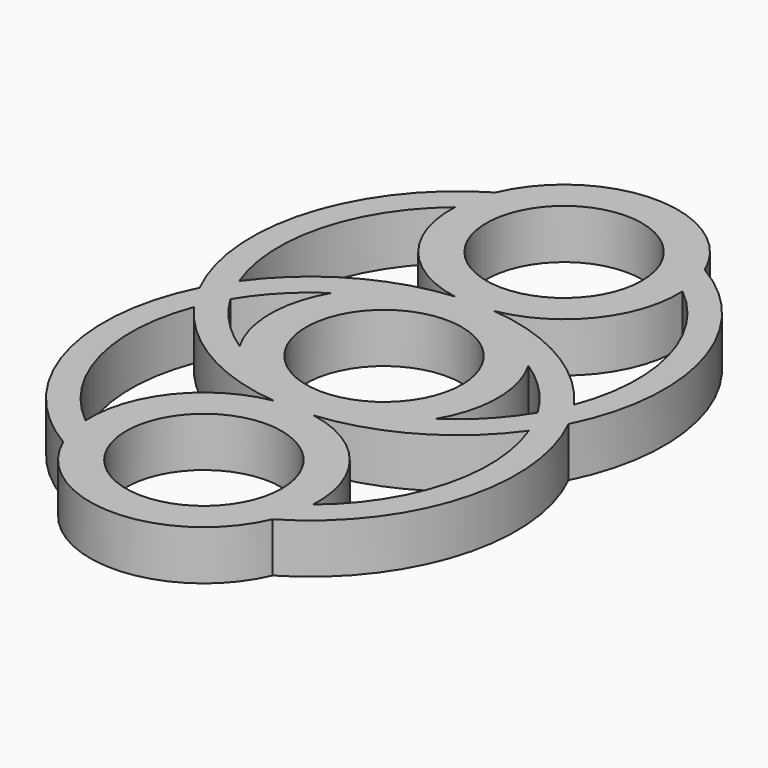
from build123d import *

# Parameters (mm, degrees)
F0_R     = 10.9855
F1_DEPTH = 6.985


with BuildPart() as f1:
    # F0 (on Top) → F1 (new body)
    with BuildSketch(Plane.XY):
        with BuildLine():
            ThreePointArc((-21.668307594, 0), (-18.2243869403, 4.4968425779), (-13.8658100212, 8.1141606286))
            ThreePointArc((-13.8658100212, 8.1141606286), (-16.0655, 0), (-13.8658100212, -8.1141606286))
            ThreePointArc((-13.8658100212, -8.1141606286), (-9.0413202093, -13.2798651771), (-2.4667114241, -15.875))
            ThreePointArc((-2.4667114241, -15.875), (-2.6336178966, -15.9018345849), (-2.8002327647, -15.9304239401))
            ThreePointArc((-2.8002327647, -15.9304239401), (-12.5689671865, -21.743934134), (-16.044699379, -32.5672588867))
            ThreePointArc((-16.044699379, -32.5672588867), (-15.6474770652, -35.3909822497), (-14.75729617, -38.1))
            ThreePointArc((-14.75729617, -38.1), (0, -47.8155), (14.75729617, -38.1))
            ThreePointArc((14.75729617, -38.1), (15.6474770652, -35.3909822497), (16.044699379, -32.5672588867))
            ThreePointArc((16.044699379, -32.5672588867), (12.5689671865, -21.743934134), (2.8002327647, -15.9304239401))
            ThreePointArc((2.8002327647, -15.9304239401), (2.6336178966, -15.9018345849), (2.4667114241, -15.875))
            ThreePointArc((2.4667114241, -15.875), (9.0413202093, -13.2798651771), (13.8658100212, -8.1141606286))
            ThreePointArc((13.8658100212, -8.1141606286), (16.0655, 0), (13.8658100212, 8.1141606286))
            ThreePointArc((13.8658100212, 8.1141606286), (18.2243869403, 4.4968425779), (21.668307594, 0))
            ThreePointArc((21.668307594, 0), (22.7248224192, 1.9453544448), (23.6071191459, 3.9756696857))
            ThreePointArc((23.6071191459, 3.9756696857), (14.4936570973, 12.1982197779), (2.8002327647, 15.9304239401))
            ThreePointArc((2.8002327647, 15.9304239401), (12.5689671865, 21.743934134), (16.044699379, 32.5672588867))
            ThreePointArc((16.044699379, 32.5672588867), (15.6474770652, 35.3909822497), (14.75729617, 38.1))
            ThreePointArc((14.75729617, 38.1), (0, 47.8155), (-14.75729617, 38.1))
            ThreePointArc((-14.75729617, 38.1), (-15.6474770652, 35.3909822497), (-16.044699379, 32.5672588867))
            ThreePointArc((-16.044699379, 32.5672588867), (-12.5689671865, 21.743934134), (-2.8002327647, 15.9304239401))
            ThreePointArc((-2.8002327647, 15.9304239401), (-14.4936570973, 12.1982197779), (-23.6071191459, 3.9756696857))
            ThreePointArc((-23.6071191459, 3.9756696857), (-22.7248224192, 1.9453544448), (-21.668307594, 0))
        make_face()
        with Locations((0, -31.75)):
            Circle(F0_R, mode=Mode.SUBTRACT)
        Circle(F0_R, mode=Mode.SUBTRACT)
        with Locations((0, 31.75)):
            Circle(F0_R, mode=Mode.SUBTRACT)
        with BuildLine():
            ThreePointArc((-23.6071191459, -3.9756696857), (-22.7248224192, -1.9453544448), (-21.668307594, 0))
            ThreePointArc((-21.668307594, 0), (-22.7248224192, 1.9453544448), (-23.6071191459, 3.9756696857))
            ThreePointArc((-23.6071191459, 3.9756696857), (-24.8896850265, 2.0359533325), (-26.013236893, 0))
            ThreePointArc((-26.013236893, 0), (-24.8896850265, -2.0359533325), (-23.6071191459, -3.9756696857))
        make_face()
        with BuildLine():
            ThreePointArc((-26.013236893, 0), (-24.8896850265, 2.0359533325), (-23.6071191459, 3.9756696857))
            ThreePointArc((-23.6071191459, 3.9756696857), (-24.4425125824, 19.4925468905), (-16.044699379, 32.5672588867))
            ThreePointArc((-16.044699379, 32.5672588867), (-15.6474770652, 35.3909822497), (-14.75729617, 38.1))
            ThreePointArc((-14.75729617, 38.1), (-27.9009245646, 21.2703622392), (-26.013236893, 0))
        make_face()
        with BuildLine():
            ThreePointArc((-16.044699379, -32.5672588867), (-24.4425125824, -19.4925468905), (-23.6071191459, -3.9756696857))
            ThreePointArc((-23.6071191459, -3.9756696857), (-24.8896850265, -2.0359533325), (-26.013236893, 0))
            ThreePointArc((-26.013236893, 0), (-27.9009245646, -21.2703622392), (-14.75729617, -38.1))
            ThreePointArc((-14.75729617, -38.1), (-15.6474770652, -35.3909822497), (-16.044699379, -32.5672588867))
        make_face()
        with BuildLine():
            ThreePointArc((26.013236893, 0), (27.9009245646, 21.2703622392), (14.75729617, 38.1))
            ThreePointArc((14.75729617, 38.1), (15.6474770652, 35.3909822497), (16.044699379, 32.5672588867))
            ThreePointArc((16.044699379, 32.5672588867), (24.4425125824, 19.4925468905), (23.6071191459, 3.9756696857))
            ThreePointArc((23.6071191459, 3.9756696857), (24.8896850265, 2.0359533325), (26.013236893, 0))
        make_face()
        with BuildLine():
            ThreePointArc((16.044699379, -32.5672588867), (15.6474770652, -35.3909822497), (14.75729617, -38.1))
            ThreePointArc((14.75729617, -38.1), (27.9009245646, -21.2703622392), (26.013236893, 0))
            ThreePointArc((26.013236893, 0), (24.8896850265, -2.0359533325), (23.6071191459, -3.9756696857))
            ThreePointArc((23.6071191459, -3.9756696857), (24.4425125824, -19.4925468905), (16.044699379, -32.5672588867))
        make_face()
        with BuildLine():
            ThreePointArc((23.6071191459, -3.9756696857), (24.8896850265, -2.0359533325), (26.013236893, 0))
            ThreePointArc((26.013236893, 0), (24.8896850265, 2.0359533325), (23.6071191459, 3.9756696857))
            ThreePointArc((23.6071191459, 3.9756696857), (22.7248224192, 1.9453544448), (21.668307594, 0))
            ThreePointArc((21.668307594, 0), (22.7248224192, -1.9453544448), (23.6071191459, -3.9756696857))
        make_face()
        with BuildLine():
            ThreePointArc((-2.4667114241, -15.875), (-9.0413202093, -13.2798651771), (-13.8658100212, -8.1141606286))
            ThreePointArc((-13.8658100212, -8.1141606286), (-18.2243869403, -4.4968425779), (-21.668307594, 0))
            ThreePointArc((-21.668307594, 0), (-22.7248224192, -1.9453544448), (-23.6071191459, -3.9756696857))
            ThreePointArc((-23.6071191459, -3.9756696857), (-14.4936570973, -12.1982197779), (-2.8002327647, -15.9304239401))
            ThreePointArc((-2.8002327647, -15.9304239401), (-2.6336178966, -15.9018345849), (-2.4667114241, -15.875))
        make_face()
        with BuildLine():
            ThreePointArc((2.8002327647, -15.9304239401), (14.4936570973, -12.1982197779), (23.6071191459, -3.9756696857))
            ThreePointArc((23.6071191459, -3.9756696857), (22.7248224192, -1.9453544448), (21.668307594, 0))
            ThreePointArc((21.668307594, 0), (18.2243869403, -4.4968425779), (13.8658100212, -8.1141606286))
            ThreePointArc((13.8658100212, -8.1141606286), (9.0413202093, -13.2798651771), (2.4667114241, -15.875))
            ThreePointArc((2.4667114241, -15.875), (2.6336178966, -15.9018345849), (2.8002327647, -15.9304239401))
        make_face()
    extrude(amount=F1_DEPTH)


solid = f1.part
